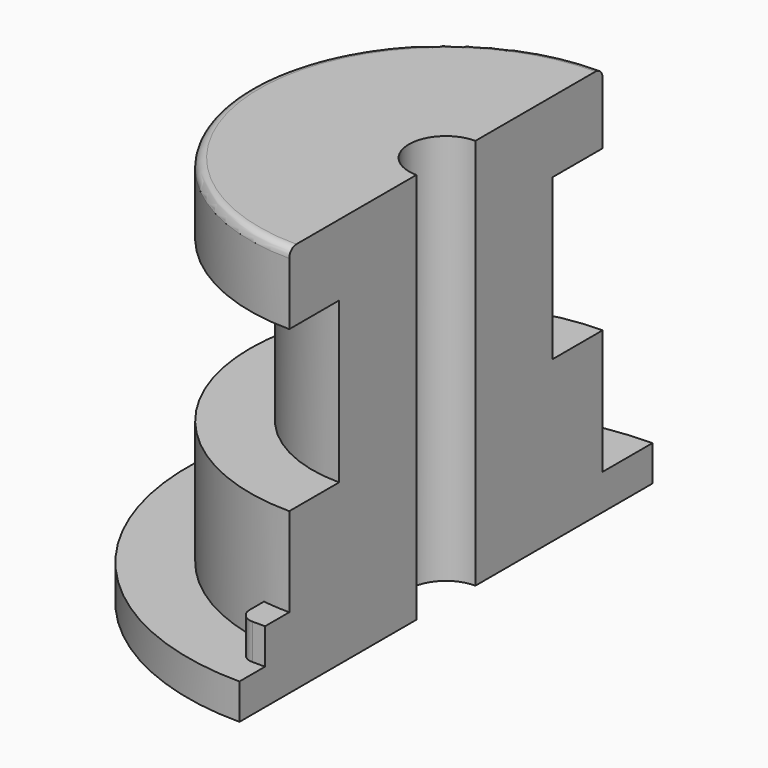
from build123d import *

# Parameters (mm, degrees)
F0_R      = 14.5
F1_DEPTH  = 2
F2_R      = 11
F3_DEPTH  = 20
F4_R      = 2.075
F5_DEPTH  = 22.001
F6_W      = 3
F6_H      = 3.4
F7_DEPTH  = 2
F8_R      = 0.8
F9_R      = 0.5
F10_W     = 27.062299
F10_H     = 70.926305
F11_DEPTH = 22.001
F13_W     = 3.5
F13_H     = 9


with BuildPart() as f1:
    # F0 (on Top) → F1 (new body)
    with BuildSketch(Plane.XY):
        Circle(F0_R)
    extrude(amount=F1_DEPTH)

    # F2 (on face) → F3 (join)
    with BuildSketch(Plane.XY.offset(2)):
        Circle(F2_R)
    extrude(amount=F3_DEPTH)

    # F4 (on face) → F5 (cut, through all)
    with BuildSketch(Plane(origin=(0, 0, 0), x_dir=(1, 0, 0), z_dir=(0, 0, -1))):
        Circle(F4_R)
    extrude(amount=-F5_DEPTH, mode=Mode.SUBTRACT)

    # F6 (on face) → F7 (join)
    with BuildSketch(Plane.XY.offset(2)):
        with Locations((0, -11)):
            Rectangle(F6_W, F6_H)
    extrude(amount=F7_DEPTH)

    # F8
    f8_edges = [f1.edges().sort_by_distance(p)[0] for p in [
        (-1.5, -12.7, 3),
        (1.5, -12.7, 3),
    ]]
    fillet(f8_edges, radius=F8_R)

    # F9
    f9_edges = [f1.edges().sort_by_distance(p)[0] for p in [
        (-11, 0, 22),
    ]]
    fillet(f9_edges, radius=F9_R)

    # F10 (on Top) → F11 (cut, through all)
    with BuildSketch(Plane.XY):
        with Locations((13.531149, -0.320642)):
            Rectangle(F10_W, F10_H)
    extrude(amount=F11_DEPTH, mode=Mode.SUBTRACT)

    # F13 (on Front) → F14 (revolve, cut)
    with BuildSketch(Plane.XZ):
        with Locations((9.25, 13.5)):
            Rectangle(F13_W, F13_H)
    revolve(axis=Axis((0, 0, 13.307823), (0, 0, 1)), mode=Mode.SUBTRACT)


solid = f1.part
